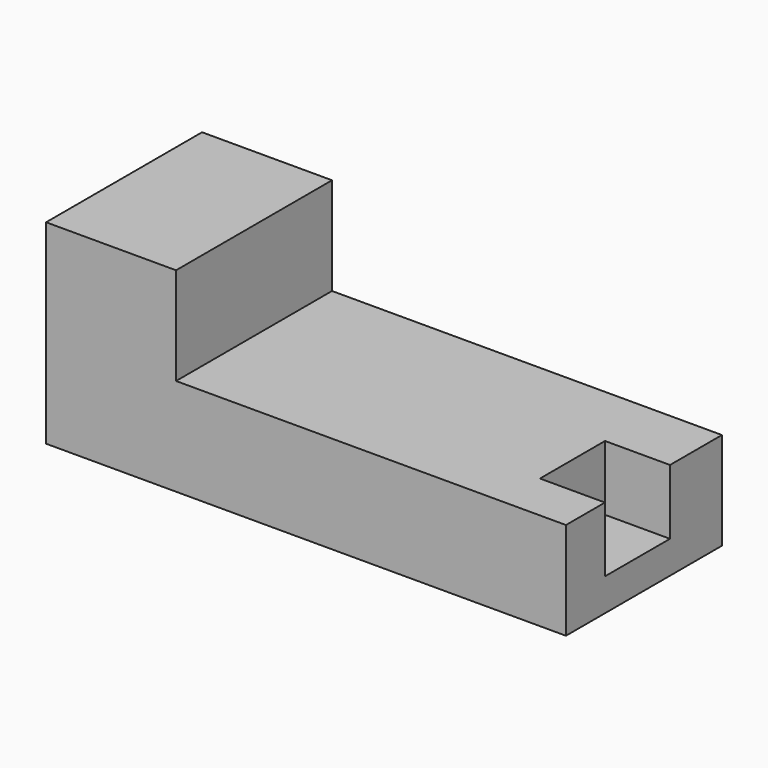
from build123d import *

# Parameters (mm, degrees)
F1_DEPTH = 76.2
F2_W     = 31.781995
F2_H     = 25.4
F3_DEPTH = 25.4


with BuildPart() as f1:
    # F0 (on Front) → F1 (new body)
    with BuildSketch(Plane.XZ):
        Polygon((0, 76.2), (0, 0), (203.2, 0), (203.2, 38.1), (50.8, 38.1), (50.8, 76.2), align=None)
    extrude(amount=F1_DEPTH)

    # F2 (on face) → F3 (cut)
    with BuildSketch(Plane.YZ.offset(203.2)):
        with Locations((-41.259003, 25.4)):
            Rectangle(F2_W, F2_H)
    extrude(amount=-F3_DEPTH, mode=Mode.SUBTRACT)


solid = f1.part
